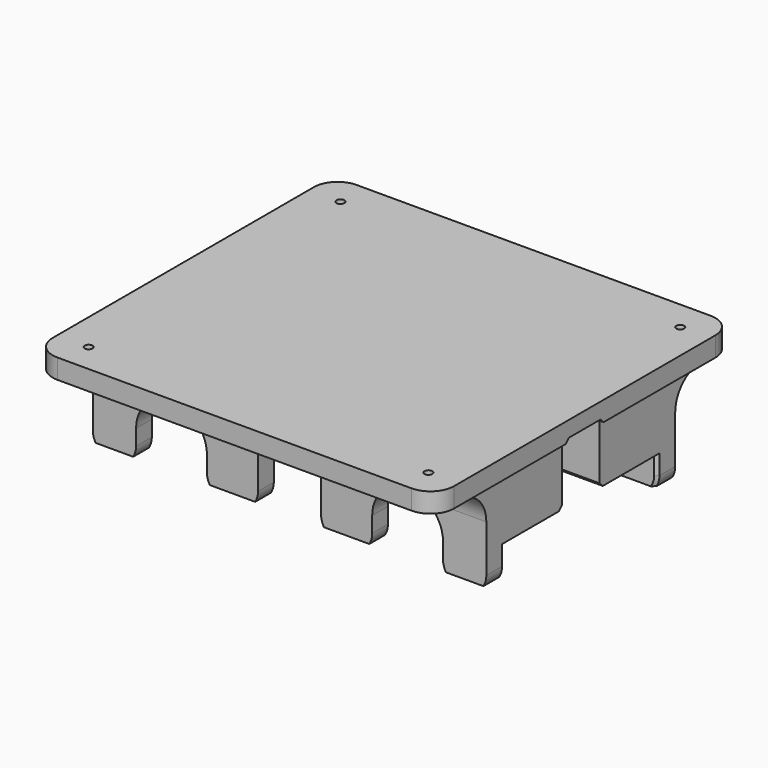
from build123d import *

# Parameters (mm, degrees)
SKETCH089_W          = 60
SKETCH089_H          = 30
PAD037_DEPTH         = 50
PAD037_DEPTH_BACK    = 50
SKETCH091_W          = 102
SKETCH091_H          = 95
PAD038_DEPTH         = 5
POCKET026_DEPTH      = 102
POCKET026_DEPTH_BACK = 14
POCKET027_DEPTH      = 50
POCKET027_DEPTH_BACK = 100
FILLET045_R          = 5
FILLET046_R          = 8
FILLET047_R          = 6
CHAMFER004_SIZE      = 1
CHAMFER005_SIZE      = 0.75
SKETCH098_R          = 1
POCKET028_DEPTH      = 30.001
CHAMFER006_SIZE      = 1
SKETCH147_W          = 121.013889
SKETCH147_H          = 13.874211
POCKET056_DEPTH      = 250


with BuildPart() as part:
    # Sketch089 → Pad037 (new body, two sides)
    with BuildSketch(Plane.YZ) as pad037_sk:
        with Locations((0, -15)):
            Rectangle(SKETCH089_W, SKETCH089_H)
    extrude(amount=PAD037_DEPTH)
    extrude(pad037_sk.sketch, amount=-PAD037_DEPTH_BACK)

    # Sketch091 → Pad038 (join)
    with BuildSketch(Plane.XY):
        Rectangle(SKETCH091_W, SKETCH091_H)
    extrude(amount=-PAD038_DEPTH)

    # Sketch090 (on Face5 of Pad037) → Pocket026 (cut, two sides)
    with BuildSketch(Plane(origin=(-50, 0, 0), x_dir=(0, 1, 0), z_dir=(-1, 0, 0))) as pocket026_sk:
        Polygon((24.25, 32.2), (-24.25, 32.2), (-24.25, 20), (-6, 20), (-6, 4), (6, 4), (6, 20), (24.25, 20), align=None)
    extrude(amount=-POCKET026_DEPTH, mode=Mode.SUBTRACT)
    extrude(pocket026_sk.sketch, amount=POCKET026_DEPTH_BACK, mode=Mode.SUBTRACT)

    # Sketch092 → Pocket027 (cut, two sides)
    with BuildSketch(Plane.XZ) as pocket027_sk:
        with BuildLine():
            Line((-39, -30), (-39, -21))
            ThreePointArc((-21, -21), (-30, -12), (-39, -21))
            Line((-21, -21), (-21, -30))
            Line((-39, -30), (-21, -30))
        make_face()
        with BuildLine():
            ThreePointArc((39, -21), (30, -12), (21, -21))
            Line((21, -21), (21, -30))
            Line((39, -30), (21, -30))
            Line((39, -21), (39, -30))
        make_face()
        with BuildLine():
            ThreePointArc((8, -16), (0, -8), (-8, -16))
            Line((-8, -16), (-8, -30))
            Line((-8, -30), (8, -30))
            Line((8, -16), (8, -30))
        make_face()
    extrude(amount=-POCKET027_DEPTH, mode=Mode.SUBTRACT)
    extrude(pocket027_sk.sketch, amount=POCKET027_DEPTH_BACK, mode=Mode.SUBTRACT)

    # Fillet045
    fillet045_edges = [part.edges().sort_by_distance(p)[0] for p in [
        (39, 27.125, -30),
        (50, 27.125, -30),
        (21, 27.125, -30),
        (8, 27.125, -30),
        (-8, 27.125, -30),
        (-21, 27.125, -30),
        (-39, 27.125, -30),
        (-50, 27.125, -30),
        (-50, -27.125, -30),
        (-39, -27.125, -30),
        (-21, -27.125, -30),
        (-8, -27.125, -30),
        (8, -27.125, -30),
        (21, -27.125, -30),
        (39, -27.125, -30),
        (50, -27.125, -30),
    ]]
    fillet(fillet045_edges, radius=FILLET045_R)

    # Fillet046
    fillet046_edges = [part.edges().sort_by_distance(p)[0] for p in [
        (0, 30, -5),
        (0, -30, -5),
    ]]
    fillet(fillet046_edges, radius=FILLET046_R)

    # Fillet047
    fillet047_edges = [part.edges().sort_by_distance(p)[0] for p in [
        (-51, 47.5, -2.5),
        (51, 47.5, -2.5),
        (-51, -47.5, -2.5),
        (51, -47.5, -2.5),
    ]]
    fillet(fillet047_edges, radius=FILLET047_R)

    # Chamfer004
    chamfer004_edges = [part.edges().sort_by_distance(p)[0] for p in [
        (44.472136, -6, -20),
        (30, -6, -12),
        (14.527864, -6, -20),
        (0, -6, -8),
        (-14.527864, -6, -20),
        (-30, -6, -12),
        (-44.472136, -6, -20),
        (-44.472136, 6, -20),
        (-30, 6, -12),
        (-14.527864, 6, -20),
        (0, 6, -8),
        (14.527864, 6, -20),
        (30, 6, -12),
        (44.472136, 6, -20),
    ]]
    chamfer(chamfer004_edges, length=CHAMFER004_SIZE)

    # Chamfer005
    chamfer005_edges = [part.edges().sort_by_distance(p)[0] for p in [
        (48.535534, 24.25, -28.535534),
        (19.535534, 24.25, -28.535534),
        (-9.464466, 24.25, -28.535534),
        (-40.464466, 24.25, -28.535534),
        (-40.464466, -24.25, -28.535534),
        (-9.464466, -24.25, -28.535534),
        (19.535534, -24.25, -28.535534),
        (48.535534, -24.25, -28.535534),
    ]]
    chamfer(chamfer005_edges, length=CHAMFER005_SIZE)

    # Sketch098 → Pocket028 (cut, through all)
    with BuildSketch(Plane.XY):
        with Locations((43.38, 39.88)):
            Circle(SKETCH098_R)
        with Locations((43.38, -40.12)):
            Circle(SKETCH098_R)
        with Locations((-42.98, 39.88)):
            Circle(SKETCH098_R)
        with Locations((-42.98, -40.12)):
            Circle(SKETCH098_R)
    extrude(amount=-POCKET028_DEPTH, mode=Mode.SUBTRACT)

    # Chamfer006
    chamfer006_edges = [part.edges().sort_by_distance(p)[0] for p in [
        (0, -6, -4),
        (0, 6, -4),
    ]]
    chamfer(chamfer006_edges, length=CHAMFER006_SIZE)

    # Sketch147 → Pocket056 (cut, symmetric)
    with BuildSketch(Plane.XZ):
        with Locations((-0.913626, -34.549845)):
            Rectangle(SKETCH147_W, SKETCH147_H)
    extrude(amount=POCKET056_DEPTH, both=True, mode=Mode.SUBTRACT)


solid = part.part
